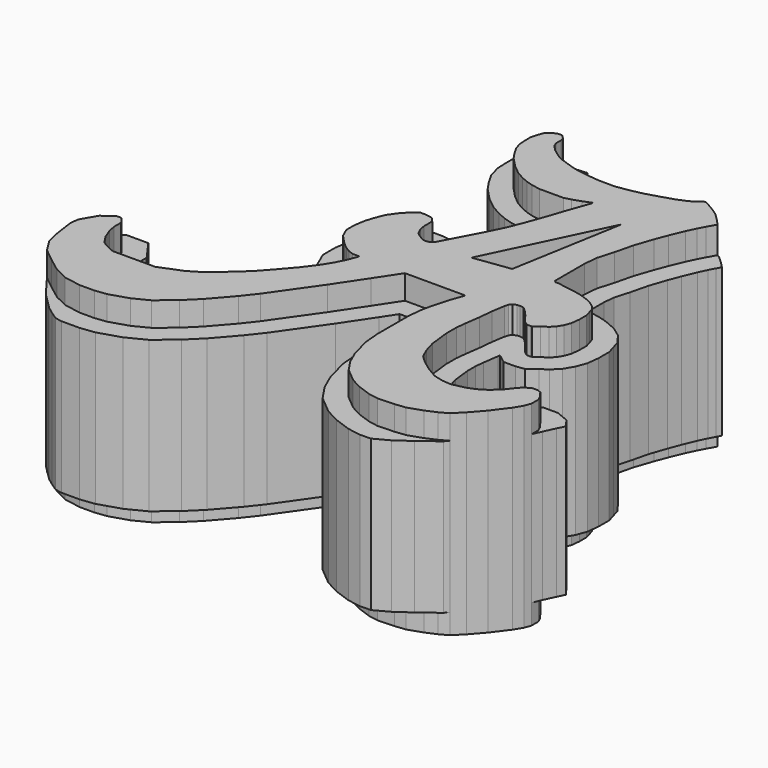
from build123d import *

# Parameters (mm, degrees)
F1_DEPTH = 29
F2_START = 3
F2_DEPTH = 22.4
F3_START = 3
F3_DEPTH = 22


with BuildPart() as f1:
    # F0 (on Top) → F1 (new body)
    with BuildSketch(Plane.XY):
        Polygon((-55.4771868085, -76.9122345267), (-56.7773579614, -79.1579798582), (-56.9335097478, -80.3796234188), (-56.525231584, -83.325061961), (-56.0271542921, -85.4638699969), (-54.8180431118, -87.4102429808), (-52.8315734031, -89.0169485232), (-50.852069242, -90.501577581), (-48.8571826078, -91.4696813863), (-46.3976993275, -91.9088752331), (-44.1870763898, -91.9088752331), (-42.480922123, -91.7008108409), (-39.7018380463, -90.8252075315), (-37.4736860394, -89.6966606379), (-34.9561646581, -87.6131951809), (-32.9884439707, -85.6744125485), (-30.268361792, -82.5492143631), (-28.6768265069, -80.5236250162), (-23.997541517, -73.8576427102), (-21.0626423359, -69.4644078612), (-18.8022218645, -66.0373196006), (-9.8152309656, -66.0373196006), (-10.5956736826, -68.2091047415), (-11.2895627577, -70.747273101), (-11.5834661395, -72.2167947024), (-11.7668987574, -74.2528973229), (-11.7668987574, -77.6128619909), (-11.7668987574, -79.9336769137), (-11.5466282215, -82.4117248971), (-10.7207660411, -85.4398840374), (-9.8920095312, -87.3184031841), (-8.7269776987, -89.0567048584), (-6.7339014953, -90.717599809), (-5.1461704391, -91.5668488583), (-3.0851456357, -92.3029274832), (-1.6772811596, -92.5483354414), (0.7941583171, -92.4514234066), (2.3800979834, -92.2691300511), (4.4582257979, -91.5581882), (6.0077072121, -90.8837094903), (7.2108334862, -90.2274623513), (8.5780229419, -88.8602659106), (10.2551085874, -86.9462043047), (12.0233399794, -84.5946371555), (12.7342781052, -83.4097415209), (13.0988620222, -82.4435949326), (13.0988620222, -81.1493247747), (12.77073659, -80.4383829236), (12.1190187357, -79.5771853497), (11.5493806079, -79.343487197), (10.749564059, -79.343487197), (9.8079703897, -79.8815401613), (9.1349473426, -80.6480393745), (8.3187351584, -81.700042689), (7.1144400343, -82.8144707718), (5.8585381137, -83.5859515076), (4.6939041708, -84.0518072817), (2.6899143158, -84.4844782762), (1.413950813, -84.3758881092), (0, -84.0113013983), (-1.575636561, -83.0998420715), (-3.0339716468, -82.02432096), (-4.1641816497, -80.9670314193), (-4.8022032715, -79.490467906), (-5.2761621773, -77.8498351574), (-5.6225168519, -74.8420208693), (-5.6225168519, -72.9644149542), (-5.4584541358, -71.5060830116), (-5.1433341578, -69.2452937365), (-4.9440590665, -67.19122082), (-4.6374816447, -65.2751177549), (-4.4901357032, -64.7473558784), (-4.180427175, -64.3344148993), (-3.6642446648, -64.1279369593), (-3.234093776, -64.1107335687), (-2.7007055469, -64.1795620322), (-2.3737901356, -64.4548535347), (-1.9952568691, -64.8161843419), (-1.341426163, -65.5216351151), (-0.4035182504, -66.7946436151), (0.2502332365, -67.28495968), (0.8093319484, -67.28495968), (1.0599676629, -67.2478261787), (1.8244895618, -66.6744410992), (2.6675867848, -66.1066398025), (3.2697990537, -65.504424274), (3.7515689619, -64.695738256), (4.0956903249, -63.7666136026), (4.2416174146, -62.493365258), (4.2416174146, -61.1353424606), (3.9752479643, -60.2393709123), (3.7859810982, -59.6027448773), (3.2697990537, -58.9489154518), (2.5643503759, -58.4327317774), (1.6749651404, -58.0106303096), (0.8728687535, -57.7071346343), (0, -57.4686713517), (-1.0131419403, -57.2952479124), (-2.2704824805, -57.1001432836), (-3.246004926, -56.9050386548), (-3.7446056958, -56.9050386548), (-4.0264236741, -56.6882528365), (-4.0264236741, -56.3630796969), (-4.0264236741, -55.6260198355), (-4.0264236741, -53.6316148937), (-4.0264236741, -51.1819720268), (-3.8313188124, -49.1442121565), (-3.1376136467, -46.7596016824), (-2.4655868765, -44.0281368792), (-1.5767773148, -41.4050631225), (-0.8613939281, -39.5407341421), (0, -37.459615618), (0.6344077992, -36.1372418702), (1.1546865571, -35.1617187262), (1.870070002, -33.8826999068), (1.0246166494, -32.9722128808), (0, -31.9750122726), (-1.1865681736, -31.1729144305), (-2.6173347142, -30.3491409868), (-3.0635534354, -30.3491409868), (-3.4796185044, -30.7478699181), (-4.3918506661, -31.384310495), (-5.912813465, -32.0055474148), (-7.8360544032, -32.610611479), (-9.5868404944, -33.1293656648), (-11.3126777585, -33.5176790724), (-13.385634966, -33.8393449783), (-13.9550771564, -33.8393449783), (-15.7110188156, -33.8393449783), (-17.4019243568, -33.6659178138), (-19.092829898, -33.4274545312), (-20.2634576708, -33.1456400454), (-21.3907286525, -32.7554307878), (-22.4857907742, -32.3876775801), (-23.3162567019, -31.9353975356), (-24.5522987098, -31.0083646327), (-25.3055114299, -30.1972124726), (-25.4986435175, -29.5985043049), (-25.4986435175, -28.7487264723), (-25.65314807, -28.1500183046), (-26.1939103106, -27.6350049911), (-26.860978722, -27.6350049911), (-27.700165908, -28.0443652681), (-28.1783126123, -28.543301657), (-28.4992334846, -29.3857172541), (-28.7368105115, -30.316228549), (-28.7368105115, -31.26300977), (-28.6778739435, -32.3238679938), (-28.3606595865, -33.4341172872), (-27.7130449605, -34.5723477923), (-26.9508227947, -35.686364804), (-25.5666103931, -37.1290650005), (-24.2381724531, -38.2035383599), (-23.1034335981, -38.8296020874), (-22.1446871747, -39.2600589721), (-21.1056688142, -39.5737232512), (-19.7920670504, -39.8020700873), (-18.8013203442, -39.8020700873), (-17.3834227026, -39.8020700873), (-16.2233244628, -39.8020700873), (-15.2952447534, -39.5442688228), (-14.0835866332, -39.1317897798), (-12.768807821, -38.6161909761), (-14.0769890818, -42.3142038349), (-14.7209017936, -44.2717022004), (-15.9309783581, -47.6187217728), (-16.8820296686, -49.9320931382), (-17.9183967443, -52.0156167038), (-20.5810619103, -57.0487024805), (-20.9382269531, -57.727218294), (-21.2305542082, -58.0357840894), (-21.7015240341, -58.2144303857), (-22.3836190999, -58.2144303857), (-23.2118777931, -57.727218294), (-23.8452535123, -57.256248468), (-24.2999829352, -56.3143050908), (-24.4461465627, -55.437327051), (-24.4461465627, -54.8851533471), (-24.4461465627, -53.910732889), (-25.0307992101, -53.2448782264), (-26.0907355696, -53.0438801883), (-27.0156160153, -53.0438801883), (-27.770831506, -53.6961095114), (-28.7236532672, -54.6817891445), (-29.6800677872, -56.0339602882), (-30.272376096, -57.5147320039), (-30.6337832314, -58.6975152241), (-30.8967096122, -60.307947081), (-30.8967096122, -61.7745571896), (-30.2923854505, -63.1510777211), (-29.3664556367, -64.1431398251), (-28.8406549734, -64.6689423729), (-28.1147664089, -65.2628527465), (-27.3282793759, -65.7544045582), (-26.5487418918, -66.0467355385), (-25.5418406276, -66.0467355385), (-26.102474182, -67.5258369936), (-26.84953086, -69.0199466242), (-27.8210527663, -70.5743876171), (-29.2768012005, -72.5153805823), (-31.2868073829, -74.8495803506), (-32.7763147062, -76.5009931063), (-34.3296410805, -77.9572363502), (-37.015514164, -80.287146147), (-39.0755965955, -81.5425096863), (-42.4205233876, -82.8611819683), (-44.37738657, -82.8611819683), (-46.7159971595, -82.8611819683), (-48.7054113206, -82.8611819683), (-49.5418198407, -82.5027227402), (-50.7760867476, -81.8206295371), (-51.6205877066, -80.553881824), (-52.1727576852, -79.1247263551), (-52.400123328, -78.0203863978), (-52.400123328, -76.6561925411), (-53.0773824781, -75.7145925103), (-53.8004918401, -75.7145925103), align=None)
        Polygon((-9.7579015419, -57.4433207512), (-15.2042107657, -58.1772178411), (-6.8609276786, -40.8340059221), align=None, mode=Mode.SUBTRACT)
    extrude(amount=F1_DEPTH)


with BuildPart() as f2:
    # F0 (on Top) → F2 (new body)
    with BuildSketch(Plane.XY.offset(F2_START)):
        Polygon((-52.8315734031, -89.0169485232), (-54.8180431118, -87.4102429808), (-53.2963089645, -89.4414559007), (-52.0846508443, -90.9882560372), (-50.8214309812, -92.2256931663), (-49.8417913914, -93.205332756), (-48.8621555269, -93.927167356), (-47.7015473787, -94.7235013793), (-46.6634547521, -94.9088752331), (-44.0048274596, -94.9088752331), (-41.8432085998, -94.6452672329), (-38.5657288073, -93.6126348714), (-35.8191765858, -92.2215210838), (-32.9432626521, -89.841454967), (-30.8010055773, -87.7307027463), (-27.9559694095, -84.4619405234), (-26.2678847795, -82.3134702537), (-21.5222195117, -75.5529244067), (-18.5631830765, -71.1235586314), (-17.1871527397, -69.0373196006), (-13.9321791479, -69.0373196006), (-14.2108618142, -70.0567095164), (-14.5568766403, -71.7867891711), (-14.7668987574, -74.1180353145), (-14.7668987574, -77.6128619909), (-14.7668987574, -80.0667476697), (-14.5111975009, -82.9433919765), (-13.5560466867, -86.4456090981), (-12.5305604039, -88.7700501056), (-10.9788971671, -91.0852304528), (-8.4190534284, -93.2184311466), (-6.364824504, -94.3172015929), (-3.8527953508, -95.2143528362), (-1.8783371913, -95.5585249875), (-0.2383857281, -95.4942179167), (1.8520879094, -94.3682566285), (4.0663955733, -92.8109437227), (6.7430310883, -90.7912999392), (7.2108334862, -90.2274623513), (6.0077072121, -90.8837094903), (4.4582257979, -91.5581882), (2.3800979834, -92.2691300511), (0.7941583171, -92.4514234066), (-1.6772811596, -92.5483354414), (-3.0851456357, -92.3029274832), (-5.1461704391, -91.5668488583), (-6.7339014953, -90.717599809), (-8.7269776987, -89.0567048584), (-9.8920095312, -87.3184031841), (-10.7207660411, -85.4398840374), (-11.5466282215, -82.4117248971), (-11.7668987574, -79.9336769137), (-11.7668987574, -77.6128619909), (-11.7668987574, -74.2528973229), (-11.5834661395, -72.2167947024), (-11.2895627577, -70.747273101), (-10.5956736826, -68.2091047415), (-9.8152309656, -66.0373196006), (-18.8022218645, -66.0373196006), (-21.0626423359, -69.4644078612), (-23.997541517, -73.8576427102), (-28.6768265069, -80.5236250162), (-30.268361792, -82.5492143631), (-32.9884439707, -85.6744125485), (-34.9561646581, -87.6131951809), (-37.4736860394, -89.6966606379), (-39.7018380463, -90.8252075315), (-42.480922123, -91.7008108409), (-44.1870763898, -91.9088752331), (-46.3976993275, -91.9088752331), (-48.8571826078, -91.4696813863), (-50.852069242, -90.501577581), align=None)
    extrude(amount=F2_DEPTH)


with BuildPart() as f3:
    # F0 (on Top) → F3 (new body)
    with BuildSketch(Plane.XY.offset(F3_START)):
        Polygon((13.0988620222, -81.1493247747), (13.0988620222, -82.4435949326), (13.6779509485, -81.1310783029), (14.4322747365, -79.5007646084), (14.9820120673, -78.3889510481), (14.0163796573, -77.1129383022), (12.1408462738, -76.343487197), (9.952871469, -76.343487197), (7.8843626236, -77.5254910191), (6.8205288167, -78.7370806956), (6.0998837839, -79.6659089804), (5.2931258766, -80.4124649117), (4.5065394798, -80.8956525255), (3.8140691885, -81.1726419483), (2.4962944555, -81.4571558159), (1.9192057196, -81.4080429987), (1.1467073334, -81.2088545664), (0.0708343827, -80.5864937635), (-1.1123988091, -79.7138601074), (-1.6582228895, -79.2032522648), (-1.9728504835, -78.4751145188), (-2.3245075019, -77.2578359457), (-2.6225168519, -74.6698622677), (-2.6225168519, -73.1326347505), (-2.4816982522, -71.880916707), (-2.1634055064, -69.5973648019), (-2.1297063197, -69.2500028398), (-0.7497707604, -70.28495968), (1.0303614944, -70.28495968), (2.2517205493, -70.1040064662), (3.5635064922, -69.1201778954), (4.5838866557, -68.4329817284), (5.6556444388, -67.3612181441), (6.4694310454, -65.9952178209), (7.0348869187, -64.4684919365), (7.2416174146, -62.6647195034), (7.2416174146, -60.698838253), (6.8508574446, -59.3844614922), (6.4974779964, -58.1958194355), (5.3711833519, -56.7691820926), (4.1069318403, -55.8441169375), (2.8508913328, -55.2480011929), (1.8011069666, -54.8507858203), (0.6499182631, -54.5362869497), (-0.5300266258, -54.3343112022), (-1.0264236741, -54.2572840494), (-1.0264236741, -53.6316148937), (-1.0264236741, -51.3252615535), (-0.8718805197, -49.7111457612), (-0.2394880127, -47.5372974606), (0.4168960038, -44.8694129089), (1.2454309761, -42.4242228074), (1.925484407, -40.651965661), (2.7404479786, -38.683022382), (3.3115709683, -37.4925609008), (3.7876169935, -36.5999741708), (4.1574604514, -35.9387389323), (3.7661355454, -35.5252027512), (3.082966432, -34.8420329392), (2.309567295, -34.1588631272), (1.870070002, -33.8826999068), (1.1546865571, -35.1617187262), (0.6344077992, -36.1372418702), (0, -37.459615618), (-0.8613939281, -39.5407341421), (-1.5767773148, -41.4050631225), (-2.4655868765, -44.0281368792), (-3.1376136467, -46.7596016824), (-3.8313188124, -49.1442121565), (-4.0264236741, -51.1819720268), (-4.0264236741, -53.6316148937), (-4.0264236741, -55.6260198355), (-4.0264236741, -56.3630796969), (-4.0264236741, -56.6882528365), (-3.7446056958, -56.9050386548), (-3.246004926, -56.9050386548), (-2.2704824805, -57.1001432836), (-1.0131419403, -57.2952479124), (0, -57.4686713517), (0.8728687535, -57.7071346343), (1.6749651404, -58.0106303096), (2.5643503759, -58.4327317774), (3.2697990537, -58.9489154518), (3.7859810982, -59.6027448773), (3.9752479643, -60.2393709123), (4.2416174146, -61.1353424606), (4.2416174146, -62.493365258), (4.0956903249, -63.7666136026), (3.7515689619, -64.695738256), (3.2697990537, -65.504424274), (2.6675867848, -66.1066398025), (1.8244895618, -66.6744410992), (1.0599676629, -67.2478261787), (0.8093319484, -67.28495968), (0.2502332365, -67.28495968), (-0.4035182504, -66.7946436151), (-1.341426163, -65.5216351151), (-1.9952568691, -64.8161843419), (-2.3737901356, -64.4548535347), (-2.7007055469, -64.1795620322), (-3.234093776, -64.1107335687), (-3.6642446648, -64.1279369593), (-4.180427175, -64.3344148993), (-4.4901357032, -64.7473558784), (-4.6374816447, -65.2751177549), (-4.9440590665, -67.19122082), (-5.1433341578, -69.2452937365), (-5.4584541358, -71.5060830116), (-5.6225168519, -72.9644149542), (-5.6225168519, -74.8420208693), (-5.2761621773, -77.8498351574), (-4.8022032715, -79.490467906), (-4.1641816497, -80.9670314193), (-3.0339716468, -82.02432096), (-1.575636561, -83.0998420715), (0, -84.0113013983), (1.413950813, -84.3758881092), (2.6899143158, -84.4844782762), (4.6939041708, -84.0518072817), (5.8585381137, -83.5859515076), (7.1144400343, -82.8144707718), (8.3187351584, -81.700042689), (9.1349473426, -80.6480393745), (9.8079703897, -79.8815401613), (10.749564059, -79.343487197), (11.5493806079, -79.343487197), (12.1190187357, -79.5771853497), (12.77073659, -80.4383829236), align=None)
    extrude(amount=F3_DEPTH)


with BuildPart() as f3b:
    # F0 (on Top) → F3, piece 2 (new body)
    with BuildSketch(Plane.XY.offset(F3_START)):
        Polygon((-24.5471354574, -27.3241233081), (-26.1939103106, -27.6350049911), (-25.65314807, -28.1500183046), (-25.4986435175, -28.7487264723), (-25.4986435175, -29.5985043049), (-25.3055114299, -30.1972124726), (-24.5522987098, -31.0083646327), (-23.3162567019, -31.9353975356), (-22.4857907742, -32.3876775801), (-21.3907286525, -32.7554307878), (-20.2634576708, -33.1456400454), (-19.092829898, -33.4274545312), (-17.4019243568, -33.6659178138), (-15.7110188156, -33.8393449783), (-13.9550771564, -33.8393449783), (-13.385634966, -33.8393449783), (-11.3126777585, -33.5176790724), (-9.5868404944, -33.1293656648), (-7.8360544032, -32.610611479), (-5.912813465, -32.0055474148), (-4.3918506661, -31.384310495), (-3.4796185044, -30.7478699181), (-3.0635534354, -30.3491409868), (-2.6173347142, -30.3491409868), (-3.3233556896, -29.918057844), (-4.148314707, -29.505578801), (-4.9474937841, -29.1188787669), (-5.8349201323, -28.7331330356), (-6.9319102994, -29.1811984275), (-8.7124080004, -29.7413545441), (-10.3430852485, -30.2245207358), (-11.8725872293, -30.568658702), (-13.6170091812, -30.8393449783), (-13.9550771564, -30.8393449783), (-15.557574299, -30.8393449783), (-17.0392823456, -30.6873740852), (-18.5309880911, -30.477003346), (-19.4197317148, -30.2630490617), (-20.4225081834, -29.9159340665), (-21.2816721192, -29.6274022225), (-21.6903266363, -29.4048448881), (-22.4986435175, -28.7986063136), (-22.4986435175, -28.3678703914), (-22.8056249688, -27.1783112538), (-23.2154261321, -27.2266827524), align=None)
    extrude(amount=F3_DEPTH)


with BuildPart() as f3c:
    # F0 (on Top) → F3, piece 3 (new body)
    with BuildSketch(Plane.XY.offset(F3_START)):
        Polygon((-57.1118444204, -77.4835571647), (-56.7773579614, -79.1579798582), (-55.4771868085, -76.9122345267), (-53.8004918401, -75.7145925103), (-53.0773824781, -75.7145925103), (-52.400123328, -76.6561925411), (-52.400123328, -78.0203863978), (-52.1727576852, -79.1247263551), (-51.6205877066, -80.553881824), (-50.7760867476, -81.8206295371), (-49.5418198407, -82.5027227402), (-48.7054113206, -82.8611819683), (-46.7159971595, -82.8611819683), (-44.37738657, -82.8611819683), (-42.4205233876, -82.8611819683), (-39.0755965955, -81.5425096863), (-37.015514164, -80.287146147), (-34.3296410805, -77.9572363502), (-32.7763147062, -76.5009931063), (-31.2868073829, -74.8495803506), (-29.2768012005, -72.5153805823), (-27.8210527663, -70.5743876171), (-26.84953086, -69.0199466242), (-26.102474182, -67.5258369936), (-25.5418406276, -66.0467355385), (-26.5487418918, -66.0467355385), (-27.3282793759, -65.7544045582), (-28.1147664089, -65.2628527465), (-28.8406549734, -64.6689423729), (-29.3664556367, -64.1431398251), (-30.2923854505, -63.1510777211), (-30.8967096122, -61.7745571896), (-30.8967096122, -60.307947081), (-30.6337832314, -58.6975152241), (-30.272376096, -57.5147320039), (-29.6800677872, -56.0339602882), (-28.7236532672, -54.6817891445), (-27.770831506, -53.6961095114), (-27.0156160153, -53.0438801883), (-26.0907355696, -53.0438801883), (-25.0307992101, -53.2448782264), (-24.4461465627, -53.910732889), (-24.4461465627, -54.8851533471), (-24.4461465627, -55.437327051), (-24.2999829352, -56.3143050908), (-23.8452535123, -57.256248468), (-23.2118777931, -57.727218294), (-22.3836190999, -58.2144303857), (-21.7015240341, -58.2144303857), (-21.2305542082, -58.0357840894), (-20.9382269531, -57.727218294), (-20.5810619103, -57.0487024805), (-17.9183967443, -52.0156167038), (-16.8820296686, -49.9320931382), (-15.9309783581, -47.6187217728), (-14.7209017936, -44.2717022004), (-14.0769890818, -42.3142038349), (-12.768807821, -38.6161909761), (-14.0835866332, -39.1317897798), (-15.2952447534, -39.5442688228), (-16.2233244628, -39.8020700873), (-17.3834227026, -39.8020700873), (-18.8013203442, -39.8020700873), (-19.7920670504, -39.8020700873), (-21.1056688142, -39.5737232512), (-22.1446871747, -39.2600589721), (-23.1034335981, -38.8296020874), (-24.2381724531, -38.2035383599), (-25.5666103931, -37.1290650005), (-26.9508227947, -35.686364804), (-27.7130449605, -34.5723477923), (-28.3606595865, -33.4341172872), (-28.6778739435, -32.3238679938), (-28.7368105115, -31.26300977), (-28.7368105115, -30.316228549), (-28.4992334846, -29.3857172541), (-28.1783126123, -28.543301657), (-27.700165908, -28.0443652681), (-26.860978722, -27.6350049911), (-27.8926510364, -27.876297012), (-28.9969947189, -28.2985456288), (-30.3936656564, -28.9645094556), (-31.7368105115, -29.939296213), (-31.7368105115, -31.3462789019), (-31.654639738, -32.8253528249), (-31.1462771653, -34.6046202973), (-30.2591086433, -36.163884456), (-29.2869562402, -37.5847225835), (-27.6003477289, -39.3425961786), (-25.9190672426, -40.7024572891), (-24.4446975188, -41.5159038375), (-23.1969360727, -42.0761223601), (-21.7986062937, -42.4982574434), (-20.050875378, -42.8020700873), (-18.8013203442, -42.8020700873), (-17.395611948, -42.8020700873), (-17.557030056, -43.2927820687), (-18.730254592, -46.53787052), (-19.6158901383, -48.6921222309), (-20.5877334712, -50.6459265671), (-21.6151847641, -52.5880597929), (-23.4576099678, -50.4897413846), (-25.8087995504, -50.0438801883), (-28.1317526509, -50.0438801883), (-29.8339170539, -51.5139262217), (-31.0402608213, -52.7618705178), (-32.3339126747, -54.5908250868), (-33.1046065227, -56.5175609346), (-33.5619739458, -58.014395005), (-33.8967096122, -60.0646608592), (-33.8967096122, -62.4040930789), (-32.834017, -64.8246784071), (-31.5243384751, -66.2278975428), (-30.8561765912, -66.8960618214), (-29.8666895411, -67.7056442454), (-29.6503435316, -67.8408597905), (-30.2975108883, -68.8763315199), (-31.6161093981, -70.6344583853), (-33.5376130383, -72.8658810502), (-34.9198380149, -74.3983501571), (-36.3392156761, -75.7290165025), (-38.7913761603, -77.8561880248), (-40.4161537203, -78.8462874873), (-42.990521732, -79.8611819683), (-44.37738657, -79.8611819683), (-46.7159971595, -79.8611819683), (-48.0896406876, -79.8611819683), (-48.2221207322, -79.8044050544), (-48.6853489186, -79.5484111558), (-48.9412265686, -79.1645958096), (-49.2846073982, -78.275839431), (-49.400123328, -77.7147658431), (-49.400123328, -75.6893547137), (-51.5397631493, -72.7145925103), (-54.7618887988, -72.7145925103), (-57.0905609442, -74.3779335809), (-57.0905609442, -75.9887620807), align=None)
    extrude(amount=F3_DEPTH)


solid = Compound([f1.part, f2.part, f3.part, f3b.part, f3c.part])
